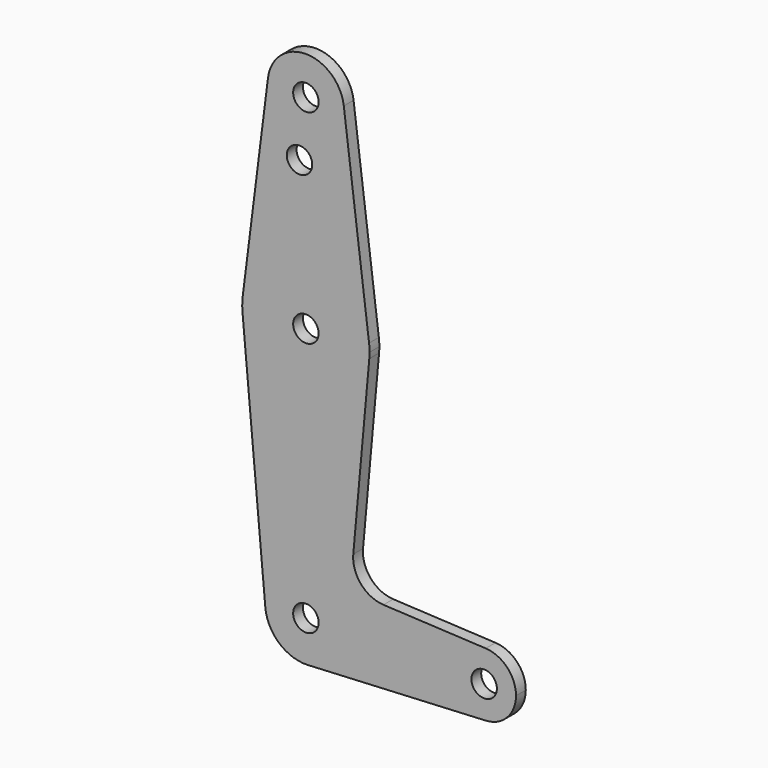
from build123d import *

# Parameters (mm, degrees)
F0_R     = 3.175
F1_DEPTH = 3.048


with BuildPart() as f1:
    # F0 (on Front) → F1 (new body)
    with BuildSketch(Plane.XZ):
        with BuildLine():
            ThreePointArc((0.508, -10.147292), (7.361619, -7.002297), (10.16, 0))
            ThreePointArc((10.16, 0), (-0.457665, 10.149687), (-10.118768, -0.9144))
            ThreePointArc((-10.118768, -0.9144), (-6.663579, -7.66957), (0.508, -10.147292))
        make_face()
        Circle(F0_R, mode=Mode.SUBTRACT)
        with BuildLine():
            ThreePointArc((-10.118768, -0.9144), (-0.457665, 10.149687), (10.16, 0))
            ThreePointArc((10.16, 0), (7.361619, -7.002297), (0.508, -10.147292))
            Line((0.508, -10.147292), (44.846875, -7.927572))
            ThreePointArc((44.846875, -7.927572), (36.5125, -0.001123), (44.844631, 7.927684))
            Line((44.844631, 7.927684), (19.337417, 9.197405))
            ThreePointArc((19.337417, 9.197405), (13.731979, 11.922673), (11.814743, 17.853291))
            Line((11.814743, 17.853291), (15.810576, 62.07125))
            ThreePointArc((15.810576, 62.07125), (0, 47.625), (-15.810576, 62.07125))
            Line((-15.810576, 62.07125), (-10.118768, -0.9144))
        make_face()
        with BuildLine():
            ThreePointArc((-15.750488, 65.484375), (-15.872541, 63.779432), (-15.810576, 62.07125))
            ThreePointArc((-15.810576, 62.07125), (0, 47.625), (15.810576, 62.07125))
            ThreePointArc((15.810576, 62.07125), (15.858886, 62.784899), (15.875, 63.5))
            ThreePointArc((15.875, 63.5), (15.843841, 64.494139), (15.750488, 65.484375))
            ThreePointArc((15.750488, 65.484375), (0, 79.375), (-15.750488, 65.484375))
        make_face()
        with Locations((0, 63.5)):
            Circle(F0_R, mode=Mode.SUBTRACT)
        with BuildLine():
            ThreePointArc((44.844631, 7.927684), (36.5125, -0.001123), (44.846875, -7.927572))
            ThreePointArc((44.846875, -7.927572), (50.201265, -5.470544), (52.3875, 0))
            ThreePointArc((52.3875, 0), (50.200491, 5.471358), (44.844631, 7.927684))
        make_face()
        with Locations((44.45, 0)):
            Circle(F0_R, mode=Mode.SUBTRACT)
        with BuildLine():
            Line((-9.450293, 115.490625), (-15.750488, 65.484375))
            ThreePointArc((-15.750488, 65.484375), (0, 79.375), (15.750488, 65.484375))
            Line((15.750488, 65.484375), (9.450293, 115.490625))
            ThreePointArc((9.450293, 115.490625), (9.506305, 114.896483), (9.525, 114.3))
            ThreePointArc((9.525, 114.3), (-0.596483, 104.793695), (-9.450293, 115.490625))
        make_face()
        with Locations((-1.5875, 100.0252)):
            Circle(F0_R, mode=Mode.SUBTRACT)
        with BuildLine():
            ThreePointArc((9.450293, 115.490625), (0, 123.825), (-9.450293, 115.490625))
            ThreePointArc((-9.450293, 115.490625), (-0.596483, 104.793695), (9.525, 114.3))
            ThreePointArc((9.525, 114.3), (9.506305, 114.896483), (9.450293, 115.490625))
        make_face()
        with Locations((0, 114.3)):
            Circle(F0_R, mode=Mode.SUBTRACT)
    extrude(amount=F1_DEPTH)


solid = f1.part
